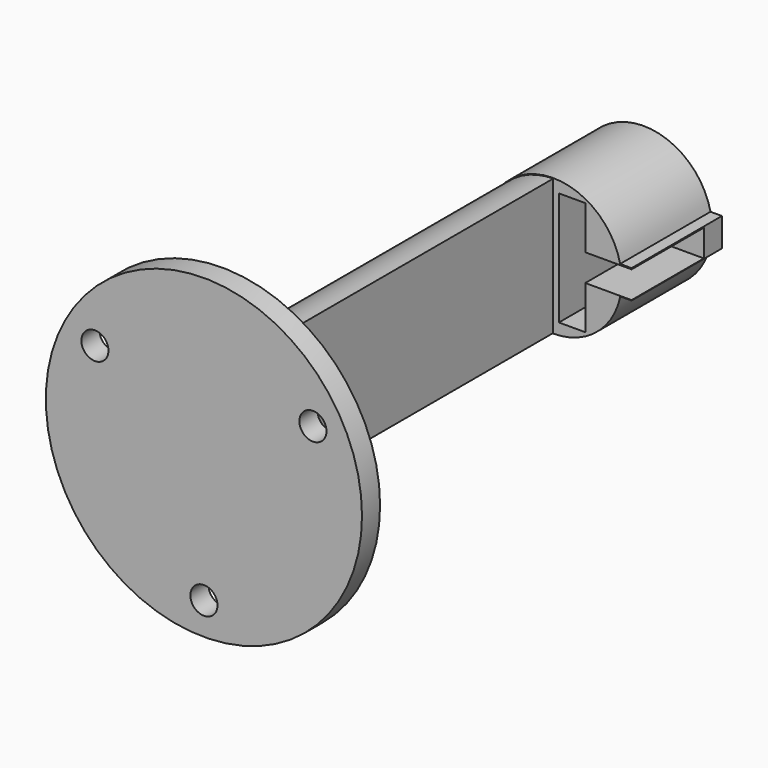
from build123d import *

# Parameters (mm, degrees)
PAD_DEPTH          = 15
POCKET_DEPTH       = 12
PAD001_DEPTH       = 55
POCKET002_DEPTH    = 9.031207
SKETCH003_R        = 21
PAD002_DEPTH       = 3
SKETCH004_R        = 1.8
POCKET001_DEPTH    = 121.946367
POLARPATTERN_COUNT = 3


with BuildPart() as hallsensor:
    # Sketch → Pad (new body)
    with BuildSketch(Plane.XZ):
        with BuildLine():
            ThreePointArc((8.889624, 1.945402), (-9.099882, -0.046426), (8.90901, -1.854598))
            Line((10.40901, -1.854598), (8.90901, -1.854598))
            Line((10.40901, 1.945402), (10.40901, -1.854598))
            Line((8.889624, 1.945402), (10.40901, 1.945402))
        make_face()
    extrude(amount=PAD_DEPTH)

    # Sketch001 (on Face6 of Pad) → Pocket (cut)
    with BuildSketch(Plane.XZ.offset(15)):
        Polygon((0.756557, 7.55), (0.756557, -7.55), (4.256557, -7.55), (4.256557, -1.795), (11.256557, -1.795), (11.256557, 1.795), (4.256557, 1.795), (4.256557, 7.55), align=None)
    extrude(amount=-POCKET_DEPTH, mode=Mode.SUBTRACT)


with BuildPart() as obj1:
    # Sketch002 (on Face1 of CopyPocket) → Pad001 (new body)
    with BuildSketch(Plane.XZ.offset(15)):
        with BuildLine():
            ThreePointArc((0, 9.030207), (-9.030207, 0), (0, -9.030207))
            Line((0, 9.030207), (0, -9.030207))
        make_face()
    extrude(amount=PAD001_DEPTH)

    # Sketch005 (on Face2 of Pad001) → Pocket002 (cut, through all)
    with BuildSketch(Plane(origin=(0, 0, 0), x_dir=(0, 0, 1), z_dir=(1, 0, 0))):
        with BuildLine():
            ThreePointArc((-2.5, 66), (0, 63.5), (2.5, 66))
            Line((2.5, 66), (2.5, 70))
            Line((2.5, 70), (-2.5, 70))
            Line((-2.5, 66), (-2.5, 70))
        make_face()
    extrude(amount=-POCKET002_DEPTH, mode=Mode.SUBTRACT)


with BuildPart() as base:
    # Sketch003 (on Face1 of CopyPad001) → Pad002 (new body)
    with BuildSketch(Plane.XZ.offset(95)):
        Circle(SKETCH003_R)
    extrude(amount=PAD002_DEPTH)

    # Sketch004 (on Face3 of Pad002) → Pocket001 (cut, through all)
    with BuildSketch(Plane(origin=(0, -98, -1e-06), x_dir=(1, 0, 0), z_dir=(0, -1, 0))):
        with Locations((0, -16.72)):
            Circle(SKETCH004_R)
    pocket001 = extrude(amount=-POCKET001_DEPTH, mode=Mode.SUBTRACT)

    # PolarPattern: Pocket001 ×3 about axis
    polarpattern_axis = Axis((0, -98, -1e-06), (0, -1, 0))
    for i in range(1, POLARPATTERN_COUNT):
        add(pocket001.rotate(polarpattern_axis, i * 360 / POLARPATTERN_COUNT), mode=Mode.SUBTRACT)


with BuildPart() as base_1:
    # Body002 placement: moved
    add(base.part.moved(Location((0, 25, 0))))


solid = Compound([hallsensor.part, obj1.part, base_1.part])
